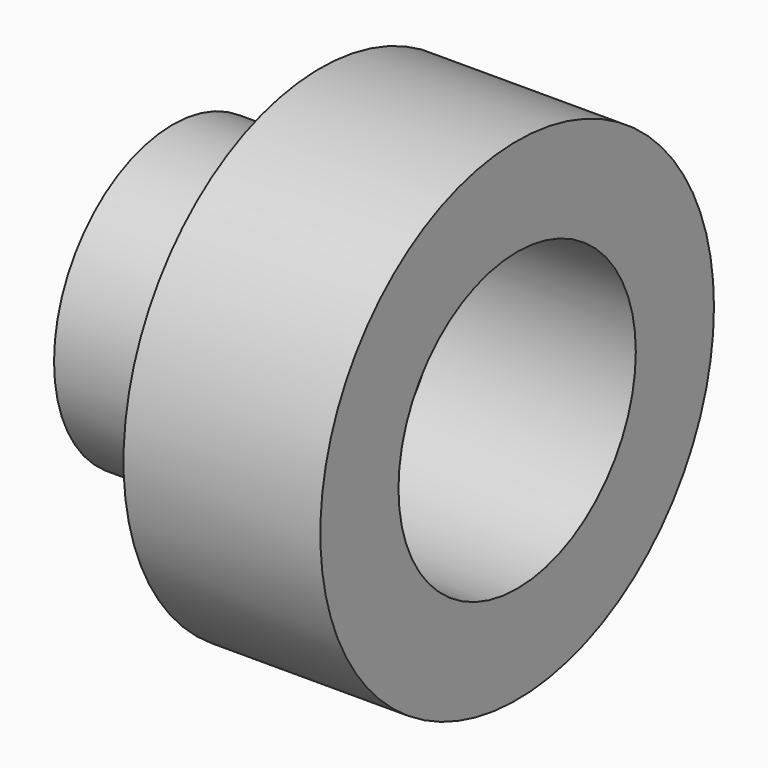
from build123d import *

# Parameters (mm, degrees)
F0_R     = 31.75
F0_R_2   = 19.143636
F1_DEPTH = 25.4
F0_R_3   = 12.7
F2_DEPTH = 19.05


with BuildPart() as f1:
    # F0 (on Right) → F1 (new body)
    with BuildSketch(Plane.YZ):
        Circle(F0_R)
        Circle(F0_R_2, mode=Mode.SUBTRACT)
    extrude(amount=F1_DEPTH)


with BuildPart() as f2:
    # F0 (on Right) → F2 (new body)
    with BuildSketch(Plane.YZ):
        Circle(F0_R_2)
        Circle(F0_R_3, mode=Mode.SUBTRACT)
    extrude(amount=-F2_DEPTH)


solid = Compound([f1.part, f2.part])
